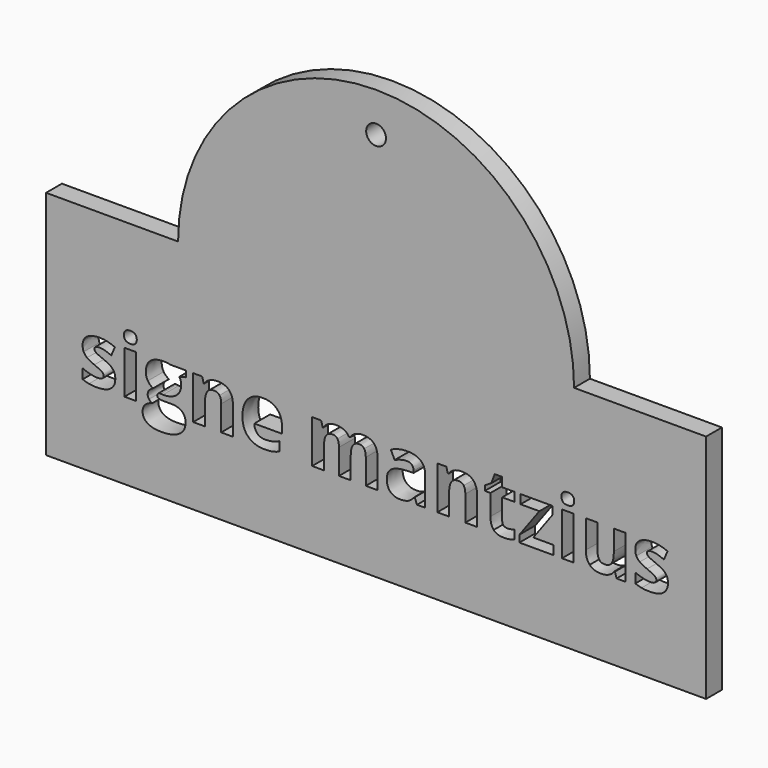
from build123d import *

# Parameters (mm, degrees)
F0_W     = 1.7806427504
F0_H     = 6.5284005979
F0_R     = 1.5
F1_DEPTH = 3


with BuildPart() as f1:
    # F0 (on Front) → F1 (new body)
    with BuildSketch(Plane.XZ):
        Polygon((-134.929150939, -12.6052355951), (-154.929150939, -12.6052355951), (-154.929150939, -47.6052355951), (-54.929150939, -47.6052355951), (-54.929150939, -12.6052355951), (-74.929150939, -12.6052355951), align=None)
        with BuildLine():
            add(Edge.make_bspline(
                [(-144.6096442125, -33.1692757871), (-144.4396143172, -33.5196121099), (-144.4396143172, -34.0035433506)],
                knots=[0, 0, 0, 1, 1, 1], degree=2))
            add(Edge.make_bspline(
                [(-144.4396143172, -34.0035433506), (-144.4396143172, -35.0087750397), (-145.1374842723, -35.5347466391)],
                knots=[0, 0, 0, 1, 1, 1], degree=2))
            add(Edge.make_bspline(
                [(-145.1374842723, -35.5347466391), (-145.8353542275, -36.0607182385), (-147.2254887566, -36.0607182385)],
                knots=[0, 0, 0, 1, 1, 1], degree=2))
            add(Edge.make_bspline(
                [(-147.2254887566, -36.0607182385), (-147.9373721647, -36.0607182385), (-148.4399880092, -35.9635582983)],
                knots=[0, 0, 0, 1, 1, 1], degree=2))
            add(Edge.make_bspline(
                [(-148.4399880092, -35.9635582983), (-148.9426038538, -35.8663983581), (-149.3798235847, -35.6795523192)],
                knots=[0, 0, 0, 1, 1, 1], degree=2))
            Line((-149.3798235847, -35.6795523192), (-149.3798235847, -34.2090739933))
            add(Edge.make_bspline(
                [(-149.3798235847, -34.2090739933), (-148.8846815817, -34.4426315419), (-148.2624842723, -34.6005164448)],
                knots=[0, 0, 0, 1, 1, 1], degree=2))
            add(Edge.make_bspline(
                [(-148.2624842723, -34.6005164448), (-147.6402869629, -34.7584013476), (-147.1675664846, -34.7584013476)],
                knots=[0, 0, 0, 1, 1, 1], degree=2))
            add(Edge.make_bspline(
                [(-147.1675664846, -34.7584013476), (-146.1978355429, -34.7584013476), (-146.1978355429, -34.197863231)],
                knots=[0, 0, 0, 1, 1, 1], degree=2))
            add(Edge.make_bspline(
                [(-146.1978355429, -34.197863231), (-146.1978355429, -33.9867272071), (-146.3267593097, -33.8550007497)],
                knots=[0, 0, 0, 1, 1, 1], degree=2))
            add(Edge.make_bspline(
                [(-146.3267593097, -33.8550007497), (-146.4556830765, -33.7232742923), (-146.770518652, -33.5569813177)],
                knots=[0, 0, 0, 1, 1, 1], degree=2))
            add(Edge.make_bspline(
                [(-146.770518652, -33.5569813177), (-147.0853542275, -33.3906883431), (-147.6103915967, -33.1702100173)],
                knots=[0, 0, 0, 1, 1, 1], degree=2))
            add(Edge.make_bspline(
                [(-147.6103915967, -33.1702100173), (-148.3633811333, -32.8544402116), (-148.717454377, -32.5853819156)],
                knots=[0, 0, 0, 1, 1, 1], degree=2))
            add(Edge.make_bspline(
                [(-148.717454377, -32.5853819156), (-149.0715276206, -32.3163236197), (-149.2312809838, -31.9687899874)],
                knots=[0, 0, 0, 1, 1, 1], degree=2))
            add(Edge.make_bspline(
                [(-149.2312809838, -31.9687899874), (-149.3910343471, -31.6212563551), (-149.3910343471, -31.1149035898)],
                knots=[0, 0, 0, 1, 1, 1], degree=2))
            add(Edge.make_bspline(
                [(-149.3910343471, -31.1149035898), (-149.3910343471, -30.2442010487), (-148.717454377, -29.7686778797)],
                knots=[0, 0, 0, 1, 1, 1], degree=2))
            add(Edge.make_bspline(
                [(-148.717454377, -29.7686778797), (-148.0438744069, -29.2931547108), (-146.8050851692, -29.2931547108)],
                knots=[0, 0, 0, 1, 1, 1], degree=2))
            add(Edge.make_bspline(
                [(-146.8050851692, -29.2931547108), (-145.626086664, -29.2931547108), (-144.5106158119, -29.8069813177)],
                knots=[0, 0, 0, 1, 1, 1], degree=2))
            Line((-144.5106158119, -29.8069813177), (-145.0468639435, -31.0906136047))
            add(Edge.make_bspline(
                [(-145.0468639435, -31.0906136047), (-145.5382690257, -30.8813460412), (-145.9642779943, -30.7468168932)],
                knots=[0, 0, 0, 1, 1, 1], degree=2))
            add(Edge.make_bspline(
                [(-145.9642779943, -30.7468168932), (-146.3902869629, -30.6122877452), (-146.8349805354, -30.6122877452)],
                knots=[0, 0, 0, 1, 1, 1], degree=2))
            add(Edge.make_bspline(
                [(-146.8349805354, -30.6122877452), (-147.6234708194, -30.6122877452), (-147.6234708194, -31.0382967138)],
                knots=[0, 0, 0, 1, 1, 1], degree=2))
            add(Edge.make_bspline(
                [(-147.6234708194, -31.0382967138), (-147.6234708194, -31.2774596436), (-147.3693602066, -31.4530949201)],
                knots=[0, 0, 0, 1, 1, 1], degree=2))
            add(Edge.make_bspline(
                [(-147.3693602066, -31.4530949201), (-147.1152495937, -31.6287301966), (-146.2557578149, -31.9725269081)],
                knots=[0, 0, 0, 1, 1, 1], degree=2))
            add(Edge.make_bspline(
                [(-146.2557578149, -31.9725269081), (-145.491557516, -32.2826913327), (-145.1356158119, -32.5508153984)],
                knots=[0, 0, 0, 1, 1, 1], degree=2))
            add(Edge.make_bspline(
                [(-145.1356158119, -32.5508153984), (-144.7796741079, -32.8189394642), (-144.6096442125, -33.1692757871)],
                knots=[0, 0, 0, 1, 1, 1], degree=2))
        make_face(mode=Mode.SUBTRACT)
        with BuildLine():
            Line((-135.9979102813, -29.4146046361), (-133.7202570675, -29.4146046361))
            Line((-133.7202570675, -29.4146046361), (-133.7202570675, -30.3208079246))
            Line((-133.7202570675, -30.3208079246), (-134.7423049001, -30.582392379))
            add(Edge.make_bspline(
                [(-134.7423049001, -30.582392379), (-134.4620358418, -31.0214805703), (-134.4620358418, -31.563334083)],
                knots=[0, 0, 0, 1, 1, 1], degree=2))
            add(Edge.make_bspline(
                [(-134.4620358418, -31.563334083), (-134.4620358418, -32.6152772818), (-135.1954065444, -33.2019738439)],
                knots=[0, 0, 0, 1, 1, 1], degree=2))
            add(Edge.make_bspline(
                [(-135.1954065444, -33.2019738439), (-135.9287772469, -33.7886704059), (-137.2292256774, -33.7886704059)],
                knots=[0, 0, 0, 1, 1, 1], degree=2))
            Line((-137.2292256774, -33.7886704059), (-137.5506008642, -33.769985802))
            Line((-137.5506008642, -33.769985802), (-137.814053779, -33.7419588962))
            add(Edge.make_bspline(
                [(-137.814053779, -33.7419588962), (-138.0887174562, -33.9512264597), (-138.0887174562, -34.2090739933)],
                knots=[0, 0, 0, 1, 1, 1], degree=2))
            add(Edge.make_bspline(
                [(-138.0887174562, -34.2090739933), (-138.0887174562, -34.5939768334), (-137.1077757521, -34.5939768334)],
                knots=[0, 0, 0, 1, 1, 1], degree=2))
            Line((-137.1077757521, -34.5939768334), (-135.9979102813, -34.5939768334))
            add(Edge.make_bspline(
                [(-135.9979102813, -34.5939768334), (-134.9235455578, -34.5939768334), (-134.3602047506, -35.0554865494)],
                knots=[0, 0, 0, 1, 1, 1], degree=2))
            add(Edge.make_bspline(
                [(-134.3602047506, -35.0554865494), (-133.7968639435, -35.5169962654), (-133.7968639435, -36.4101203312)],
                knots=[0, 0, 0, 1, 1, 1], degree=2))
            add(Edge.make_bspline(
                [(-133.7968639435, -36.4101203312), (-133.7968639435, -37.5554865494), (-134.7516472021, -38.1860919306)],
                knots=[0, 0, 0, 1, 1, 1], degree=2))
            add(Edge.make_bspline(
                [(-134.7516472021, -38.1860919306), (-135.7064304607, -38.8166973117), (-137.4926785922, -38.8166973117)],
                knots=[0, 0, 0, 1, 1, 1], degree=2))
            add(Edge.make_bspline(
                [(-137.4926785922, -38.8166973117), (-138.8585231363, -38.8166973117), (-139.5797488463, -38.3402399126)],
                knots=[0, 0, 0, 1, 1, 1], degree=2))
            add(Edge.make_bspline(
                [(-139.5797488463, -38.3402399126), (-140.3009745563, -37.8637825135), (-140.3009745563, -37.0061591951)],
                knots=[0, 0, 0, 1, 1, 1], degree=2))
            add(Edge.make_bspline(
                [(-140.3009745563, -37.0061591951), (-140.3009745563, -36.4157257123), (-139.9328878598, -36.0186778797)],
                knots=[0, 0, 0, 1, 1, 1], degree=2))
            add(Edge.make_bspline(
                [(-139.9328878598, -36.0186778797), (-139.5648011632, -35.6216300472), (-138.8529177551, -35.4516001518)],
                knots=[0, 0, 0, 1, 1, 1], degree=2))
            add(Edge.make_bspline(
                [(-138.8529177551, -35.4516001518), (-139.1275814323, -35.3357556077), (-139.3321778448, -35.0704342325)],
                knots=[0, 0, 0, 1, 1, 1], degree=2))
            add(Edge.make_bspline(
                [(-139.3321778448, -35.0704342325), (-139.5367742574, -34.8051128573), (-139.5367742574, -34.5061591951)],
                knots=[0, 0, 0, 1, 1, 1], degree=2))
            add(Edge.make_bspline(
                [(-139.5367742574, -34.5061591951), (-139.5367742574, -34.1324671174), (-139.3209670825, -33.8848961159)],
                knots=[0, 0, 0, 1, 1, 1], degree=2))
            add(Edge.make_bspline(
                [(-139.3209670825, -33.8848961159), (-139.1051599076, -33.6373251144), (-138.6959670825, -33.3962937243)],
                knots=[0, 0, 0, 1, 1, 1], degree=2))
            add(Edge.make_bspline(
                [(-138.6959670825, -33.3962937243), (-139.2097936894, -33.1758153984), (-139.5106158119, -32.6853445464)],
                knots=[0, 0, 0, 1, 1, 1], degree=2))
            add(Edge.make_bspline(
                [(-139.5106158119, -32.6853445464), (-139.8114379345, -32.1948736944), (-139.8114379345, -31.5278333356)],
                knots=[0, 0, 0, 1, 1, 1], degree=2))
            add(Edge.make_bspline(
                [(-139.8114379345, -31.5278333356), (-139.8114379345, -30.4609424537), (-139.1163706699, -29.8770485823)],
                knots=[0, 0, 0, 1, 1, 1], degree=2))
            add(Edge.make_bspline(
                [(-139.1163706699, -29.8770485823), (-138.4213034054, -29.2931547108), (-137.1301972768, -29.2931547108)],
                knots=[0, 0, 0, 1, 1, 1], degree=2))
            add(Edge.make_bspline(
                [(-137.1301972768, -29.2931547108), (-136.8555335997, -29.2931547108), (-136.4790388314, -29.3426689111)],
                knots=[0, 0, 0, 1, 1, 1], degree=2))
            add(Edge.make_bspline(
                [(-136.4790388314, -29.3426689111), (-136.1025440631, -29.3921831114), (-135.9979102813, -29.4146046361)],
                knots=[0, 0, 0, 1, 1, 1], degree=2))
        make_face(mode=Mode.SUBTRACT)
        with Locations((-142.1610268732, -32.678804935)):
            Rectangle(F0_W, F0_H, mode=Mode.SUBTRACT)
        with BuildLine():
            Line((-126.6201075907, -31.6866524687), (-126.6201075907, -35.943005234))
            Line((-126.6201075907, -35.943005234), (-128.4007503411, -35.943005234))
            Line((-128.4007503411, -35.943005234), (-128.4007503411, -32.1294775808))
            add(Edge.make_bspline(
                [(-128.4007503411, -32.1294775808), (-128.4007503411, -31.4231995539), (-128.6520582634, -31.0700605404)],
                knots=[0, 0, 0, 1, 1, 1], degree=2))
            add(Edge.make_bspline(
                [(-128.6520582634, -31.0700605404), (-128.9033661856, -30.716921527), (-129.4526935399, -30.716921527)],
                knots=[0, 0, 0, 1, 1, 1], degree=2))
            add(Edge.make_bspline(
                [(-129.4526935399, -30.716921527), (-130.2000776953, -30.716921527), (-130.5326636445, -31.2158004507)],
                knots=[0, 0, 0, 1, 1, 1], degree=2))
            add(Edge.make_bspline(
                [(-130.5326636445, -31.2158004507), (-130.8652495937, -31.7146793745), (-130.8652495937, -32.8712563551)],
                knots=[0, 0, 0, 1, 1, 1], degree=2))
            Line((-130.8652495937, -32.8712563551), (-130.8652495937, -35.943005234))
            Line((-130.8652495937, -35.943005234), (-132.6458923441, -35.943005234))
            Line((-132.6458923441, -35.943005234), (-132.6458923441, -29.4146046361))
            Line((-132.6458923441, -29.4146046361), (-131.2856531811, -29.4146046361))
            Line((-131.2856531811, -29.4146046361), (-131.0464902514, -30.2498064298))
            Line((-131.0464902514, -30.2498064298), (-130.9474618508, -30.2498064298))
            add(Edge.make_bspline(
                [(-130.9474618508, -30.2498064298), (-130.6485081886, -29.7770859515), (-130.12627351, -29.5351203312)],
                knots=[0, 0, 0, 1, 1, 1], degree=2))
            add(Edge.make_bspline(
                [(-130.12627351, -29.5351203312), (-129.6040388314, -29.2931547108), (-128.938866933, -29.2931547108)],
                knots=[0, 0, 0, 1, 1, 1], degree=2))
            add(Edge.make_bspline(
                [(-128.938866933, -29.2931547108), (-127.7991060959, -29.2931547108), (-127.2096068433, -29.9088124089)],
                knots=[0, 0, 0, 1, 1, 1], degree=2))
            add(Edge.make_bspline(
                [(-127.2096068433, -29.9088124089), (-126.6201075907, -30.5244701069), (-126.6201075907, -31.6866524687)],
                knots=[0, 0, 0, 1, 1, 1], degree=2))
        make_face(mode=Mode.SUBTRACT)
        with BuildLine():
            add(Edge.make_bspline(
                [(-120.5364005653, -35.9467421548), (-121.0670433157, -36.0607182385), (-121.833112075, -36.0607182385)],
                knots=[0, 0, 0, 1, 1, 1], degree=2))
            add(Edge.make_bspline(
                [(-121.833112075, -36.0607182385), (-123.4082241826, -36.0607182385), (-124.2957428672, -35.1900156974)],
                knots=[0, 0, 0, 1, 1, 1], degree=2))
            add(Edge.make_bspline(
                [(-124.2957428672, -35.1900156974), (-125.1832615518, -34.3193131563), (-125.1832615518, -32.7255164448)],
                knots=[0, 0, 0, 1, 1, 1], degree=2))
            add(Edge.make_bspline(
                [(-125.1832615518, -32.7255164448), (-125.1832615518, -31.0850082235), (-124.3630074412, -30.1890814672)],
                knots=[0, 0, 0, 1, 1, 1], degree=2))
            add(Edge.make_bspline(
                [(-124.3630074412, -30.1890814672), (-123.5427533306, -29.2931547108), (-122.0946965294, -29.2931547108)],
                knots=[0, 0, 0, 1, 1, 1], degree=2))
            add(Edge.make_bspline(
                [(-122.0946965294, -29.2931547108), (-120.7120358418, -29.2931547108), (-119.9412959315, -30.0807107646)],
                knots=[0, 0, 0, 1, 1, 1], degree=2))
            add(Edge.make_bspline(
                [(-119.9412959315, -30.0807107646), (-119.1705560212, -30.8682668185), (-119.1705560212, -32.2584013476)],
                knots=[0, 0, 0, 1, 1, 1], degree=2))
            Line((-119.1705560212, -32.2584013476), (-119.1705560212, -33.1234985075))
            Line((-119.1705560212, -33.1234985075), (-123.3801972768, -33.1234985075))
            add(Edge.make_bspline(
                [(-123.3801972768, -33.1234985075), (-123.3503019106, -33.8820934253), (-122.9298983231, -34.3081023939)],
                knots=[0, 0, 0, 1, 1, 1], degree=2))
            add(Edge.make_bspline(
                [(-122.9298983231, -34.3081023939), (-122.5094947357, -34.7341113626), (-121.7508998179, -34.7341113626)],
                knots=[0, 0, 0, 1, 1, 1], degree=2))
            add(Edge.make_bspline(
                [(-121.7508998179, -34.7341113626), (-121.1604663351, -34.7341113626), (-120.6354289659, -34.6117272071)],
                knots=[0, 0, 0, 1, 1, 1], degree=2))
            add(Edge.make_bspline(
                [(-120.6354289659, -34.6117272071), (-120.1103915967, -34.4893430516), (-119.5386427178, -34.2202847557)],
                knots=[0, 0, 0, 1, 1, 1], degree=2))
            Line((-119.5386427178, -34.2202847557), (-119.5386427178, -35.5992085225))
            add(Edge.make_bspline(
                [(-119.5386427178, -35.5992085225), (-120.0057578149, -35.8327660711), (-120.5364005653, -35.9467421548)],
                knots=[0, 0, 0, 1, 1, 1], degree=2))
        make_face(mode=Mode.SUBTRACT)
        with BuildLine():
            Line((-108.770705498, -32.6675941727), (-108.770705498, -35.943005234))
            Line((-108.770705498, -35.943005234), (-110.5513482484, -35.943005234))
            Line((-110.5513482484, -35.943005234), (-110.5513482484, -32.1294775808))
            add(Edge.make_bspline(
                [(-110.5513482484, -32.1294775808), (-110.5513482484, -31.4231995539), (-110.7877084876, -31.0700605404)],
                knots=[0, 0, 0, 1, 1, 1], degree=2))
            add(Edge.make_bspline(
                [(-110.7877084876, -31.0700605404), (-111.0240687267, -30.716921527), (-111.5322899524, -30.716921527)],
                knots=[0, 0, 0, 1, 1, 1], degree=2))
            add(Edge.make_bspline(
                [(-111.5322899524, -30.716921527), (-112.2161464547, -30.716921527), (-112.525376649, -31.2195373715)],
                knots=[0, 0, 0, 1, 1, 1], degree=2))
            add(Edge.make_bspline(
                [(-112.525376649, -31.2195373715), (-112.8346068433, -31.7221532161), (-112.8346068433, -32.8712563551)],
                knots=[0, 0, 0, 1, 1, 1], degree=2))
            Line((-112.8346068433, -32.8712563551), (-112.8346068433, -35.943005234))
            Line((-112.8346068433, -35.943005234), (-114.6152495937, -35.943005234))
            Line((-114.6152495937, -35.943005234), (-114.6152495937, -29.4146046361))
            Line((-114.6152495937, -29.4146046361), (-113.2550104308, -29.4146046361))
            Line((-113.2550104308, -29.4146046361), (-113.015847501, -30.2498064298))
            Line((-113.015847501, -30.2498064298), (-112.9168191004, -30.2498064298))
            add(Edge.make_bspline(
                [(-112.9168191004, -30.2498064298), (-112.6533661856, -29.7995074762), (-112.1572899524, -29.5463310935)],
                knots=[0, 0, 0, 1, 1, 1], degree=2))
            add(Edge.make_bspline(
                [(-112.1572899524, -29.5463310935), (-111.6612137193, -29.2931547108), (-111.0184633456, -29.2931547108)],
                knots=[0, 0, 0, 1, 1, 1], degree=2))
            add(Edge.make_bspline(
                [(-111.0184633456, -29.2931547108), (-109.5535904009, -29.2931547108), (-109.0322899524, -30.2498064298)],
                knots=[0, 0, 0, 1, 1, 1], degree=2))
            Line((-109.0322899524, -30.2498064298), (-108.8753392798, -30.2498064298))
            add(Edge.make_bspline(
                [(-108.8753392798, -30.2498064298), (-108.611886365, -29.793902095), (-108.1017966789, -29.5435284029)],
                knots=[0, 0, 0, 1, 1, 1], degree=2))
            add(Edge.make_bspline(
                [(-108.1017966789, -29.5435284029), (-107.5917069928, -29.2931547108), (-106.9489566191, -29.2931547108)],
                knots=[0, 0, 0, 1, 1, 1], degree=2))
            add(Edge.make_bspline(
                [(-106.9489566191, -29.2931547108), (-105.8390911483, -29.2931547108), (-105.2701449599, -29.8621008992)],
                knots=[0, 0, 0, 1, 1, 1], degree=2))
            add(Edge.make_bspline(
                [(-105.2701449599, -29.8621008992), (-104.7011987716, -30.4310470875), (-104.7011987716, -31.6866524687)],
                knots=[0, 0, 0, 1, 1, 1], degree=2))
            Line((-104.7011987716, -31.6866524687), (-104.7011987716, -35.943005234))
            Line((-104.7011987716, -35.943005234), (-106.4874469031, -35.943005234))
            Line((-106.4874469031, -35.943005234), (-106.4874469031, -32.1294775808))
            add(Edge.make_bspline(
                [(-106.4874469031, -32.1294775808), (-106.4874469031, -31.4231995539), (-106.7238071423, -31.0700605404)],
                knots=[0, 0, 0, 1, 1, 1], degree=2))
            add(Edge.make_bspline(
                [(-106.7238071423, -31.0700605404), (-106.9601673814, -30.716921527), (-107.4683886071, -30.716921527)],
                knots=[0, 0, 0, 1, 1, 1], degree=2))
            add(Edge.make_bspline(
                [(-107.4683886071, -30.716921527), (-108.1223497432, -30.716921527), (-108.4465276206, -31.1840366241)],
                knots=[0, 0, 0, 1, 1, 1], degree=2))
            add(Edge.make_bspline(
                [(-108.4465276206, -31.1840366241), (-108.770705498, -31.6511517213), (-108.770705498, -32.6675941727)],
                knots=[0, 0, 0, 1, 1, 1], degree=2))
        make_face(mode=Mode.SUBTRACT)
        with BuildLine():
            add(Edge.make_bspline(
                [(-142.1582241826, -28.6036928274), (-143.1279551243, -28.6036928274), (-143.1279551243, -27.7273849052)],
                knots=[0, 0, 0, 1, 1, 1], degree=2))
            add(Edge.make_bspline(
                [(-143.1279551243, -27.7273849052), (-143.1279551243, -26.856682364), (-142.1582241826, -26.856682364)],
                knots=[0, 0, 0, 1, 1, 1], degree=2))
            add(Edge.make_bspline(
                [(-142.1582241826, -26.856682364), (-141.1884932409, -26.856682364), (-141.1884932409, -27.7273849052)],
                knots=[0, 0, 0, 1, 1, 1], degree=2))
            add(Edge.make_bspline(
                [(-141.1884932409, -27.7273849052), (-141.1884932409, -28.1421831114), (-141.4304588613, -28.3729379694)],
                knots=[0, 0, 0, 1, 1, 1], degree=2))
            add(Edge.make_bspline(
                [(-141.4304588613, -28.3729379694), (-141.6724244816, -28.6036928274), (-142.1582241826, -28.6036928274)],
                knots=[0, 0, 0, 1, 1, 1], degree=2))
        make_face(mode=Mode.SUBTRACT)
        with BuildLine():
            Line((-97.4852047506, -35.943005234), (-98.7277309091, -35.943005234))
            Line((-98.7277309091, -35.943005234), (-99.073396081, -35.0554865494))
            Line((-99.073396081, -35.0554865494), (-99.1201075907, -35.0554865494))
            add(Edge.make_bspline(
                [(-99.1201075907, -35.0554865494), (-99.568538084, -35.6216300472), (-100.0449954831, -35.8411741428)],
                knots=[0, 0, 0, 1, 1, 1], degree=2))
            add(Edge.make_bspline(
                [(-100.0449954831, -35.8411741428), (-100.5214528822, -36.0607182385), (-101.2856531811, -36.0607182385)],
                knots=[0, 0, 0, 1, 1, 1], degree=2))
            add(Edge.make_bspline(
                [(-101.2856531811, -36.0607182385), (-102.2254887566, -36.0607182385), (-102.7654738089, -35.5226016466)],
                knots=[0, 0, 0, 1, 1, 1], degree=2))
            add(Edge.make_bspline(
                [(-102.7654738089, -35.5226016466), (-103.3054588613, -34.9844850546), (-103.3054588613, -33.9923325883)],
                knots=[0, 0, 0, 1, 1, 1], degree=2))
            add(Edge.make_bspline(
                [(-103.3054588613, -33.9923325883), (-103.3054588613, -32.9534686122), (-102.5786277701, -32.4601950696)],
                knots=[0, 0, 0, 1, 1, 1], degree=2))
            add(Edge.make_bspline(
                [(-102.5786277701, -32.4601950696), (-101.8517966789, -31.966921527), (-100.3869237342, -31.9146046361)],
                knots=[0, 0, 0, 1, 1, 1], degree=2))
            Line((-100.3869237342, -31.9146046361), (-99.2527682783, -31.8791038887))
            Line((-99.2527682783, -31.8791038887), (-99.2527682783, -31.5932294492))
            add(Edge.make_bspline(
                [(-99.2527682783, -31.5932294492), (-99.2527682783, -30.6010769829), (-100.2692107297, -30.6010769829)],
                knots=[0, 0, 0, 1, 1, 1], degree=2))
            add(Edge.make_bspline(
                [(-100.2692107297, -30.6010769829), (-101.0520956326, -30.6010769829), (-102.1096442125, -31.0737974612)],
                knots=[0, 0, 0, 1, 1, 1], degree=2))
            Line((-102.1096442125, -31.0737974612), (-102.698209235, -29.8705089709))
            add(Edge.make_bspline(
                [(-102.698209235, -29.8705089709), (-101.5715276206, -29.2800754881), (-100.2000776953, -29.2800754881)],
                knots=[0, 0, 0, 1, 1, 1], degree=2))
            add(Edge.make_bspline(
                [(-100.2000776953, -29.2800754881), (-98.8865500421, -29.2800754881), (-98.1858773964, -29.8527585972)],
                knots=[0, 0, 0, 1, 1, 1], degree=2))
            add(Edge.make_bspline(
                [(-98.1858773964, -29.8527585972), (-97.4852047506, -30.4254417063), (-97.4852047506, -31.5932294492)],
                knots=[0, 0, 0, 1, 1, 1], degree=2))
            Line((-97.4852047506, -31.5932294492), (-97.4852047506, -35.943005234))
        make_face(mode=Mode.SUBTRACT)
        with BuildLine():
            Line((-89.6245918956, -31.6866524687), (-89.6245918956, -35.943005234))
            Line((-89.6245918956, -35.943005234), (-91.405234646, -35.943005234))
            Line((-91.405234646, -35.943005234), (-91.405234646, -32.1294775808))
            add(Edge.make_bspline(
                [(-91.405234646, -32.1294775808), (-91.405234646, -31.4231995539), (-91.6565425683, -31.0700605404)],
                knots=[0, 0, 0, 1, 1, 1], degree=2))
            add(Edge.make_bspline(
                [(-91.6565425683, -31.0700605404), (-91.9078504906, -30.716921527), (-92.4571778448, -30.716921527)],
                knots=[0, 0, 0, 1, 1, 1], degree=2))
            add(Edge.make_bspline(
                [(-92.4571778448, -30.716921527), (-93.2045620003, -30.716921527), (-93.5371479495, -31.2158004507)],
                knots=[0, 0, 0, 1, 1, 1], degree=2))
            add(Edge.make_bspline(
                [(-93.5371479495, -31.2158004507), (-93.8697338986, -31.7146793745), (-93.8697338986, -32.8712563551)],
                knots=[0, 0, 0, 1, 1, 1], degree=2))
            Line((-93.8697338986, -32.8712563551), (-93.8697338986, -35.943005234))
            Line((-93.8697338986, -35.943005234), (-95.650376649, -35.943005234))
            Line((-95.650376649, -35.943005234), (-95.650376649, -29.4146046361))
            Line((-95.650376649, -29.4146046361), (-94.2901374861, -29.4146046361))
            Line((-94.2901374861, -29.4146046361), (-94.0509745563, -30.2498064298))
            Line((-94.0509745563, -30.2498064298), (-93.9519461557, -30.2498064298))
            add(Edge.make_bspline(
                [(-93.9519461557, -30.2498064298), (-93.6529924935, -29.7770859515), (-93.1307578149, -29.5351203312)],
                knots=[0, 0, 0, 1, 1, 1], degree=2))
            add(Edge.make_bspline(
                [(-93.1307578149, -29.5351203312), (-92.6085231363, -29.2931547108), (-91.9433512379, -29.2931547108)],
                knots=[0, 0, 0, 1, 1, 1], degree=2))
            add(Edge.make_bspline(
                [(-91.9433512379, -29.2931547108), (-90.8035904009, -29.2931547108), (-90.2140911483, -29.9088124089)],
                knots=[0, 0, 0, 1, 1, 1], degree=2))
            add(Edge.make_bspline(
                [(-90.2140911483, -29.9088124089), (-89.6245918956, -30.5244701069), (-89.6245918956, -31.6866524687)],
                knots=[0, 0, 0, 1, 1, 1], degree=2))
        make_face(mode=Mode.SUBTRACT)
        with BuildLine():
            add(Edge.make_bspline(
                [(-85.6055335997, -34.4594476854), (-85.3925291154, -34.6406883431), (-85.0412585623, -34.6406883431)],
                knots=[0, 0, 0, 1, 1, 1], degree=2))
            add(Edge.make_bspline(
                [(-85.0412585623, -34.6406883431), (-84.5741434651, -34.6406883431), (-83.9201823291, -34.4370261608)],
                knots=[0, 0, 0, 1, 1, 1], degree=2))
            Line((-83.9201823291, -34.4370261608), (-83.9201823291, -35.7617645763))
            add(Edge.make_bspline(
                [(-83.9201823291, -35.7617645763), (-84.5853542275, -36.0607182385), (-85.5550851692, -36.0607182385)],
                knots=[0, 0, 0, 1, 1, 1], degree=2))
            add(Edge.make_bspline(
                [(-85.5550851692, -36.0607182385), (-86.6238445115, -36.0607182385), (-87.1115126729, -35.519798956)],
                knots=[0, 0, 0, 1, 1, 1], degree=2))
            add(Edge.make_bspline(
                [(-87.1115126729, -35.519798956), (-87.5991808344, -34.9788796735), (-87.5991808344, -33.8989095688)],
                knots=[0, 0, 0, 1, 1, 1], degree=2))
            Line((-87.5991808344, -33.8989095688), (-87.5991808344, -30.7524222744))
            Line((-87.5991808344, -30.7524222744), (-88.4511987716, -30.7524222744))
            Line((-88.4511987716, -30.7524222744), (-88.4511987716, -29.9994327377))
            Line((-88.4511987716, -29.9994327377), (-87.4702570675, -29.4033938738))
            Line((-87.4702570675, -29.4033938738), (-86.9564304607, -28.0244701069))
            Line((-86.9564304607, -28.0244701069), (-85.818538084, -28.0244701069))
            Line((-85.818538084, -28.0244701069), (-85.818538084, -29.4146046361))
            Line((-85.818538084, -29.4146046361), (-83.9911838239, -29.4146046361))
            Line((-83.9911838239, -29.4146046361), (-83.9911838239, -30.7524222744))
            Line((-83.9911838239, -30.7524222744), (-85.818538084, -30.7524222744))
            Line((-85.818538084, -30.7524222744), (-85.818538084, -33.8989095688))
            add(Edge.make_bspline(
                [(-85.818538084, -33.8989095688), (-85.818538084, -34.2782070277), (-85.6055335997, -34.4594476854)],
                knots=[0, 0, 0, 1, 1, 1], degree=2))
        make_face(mode=Mode.SUBTRACT)
        Polygon((-78.05882209, -34.5827660711), (-78.05882209, -35.943005234), (-83.2139043022, -35.943005234), (-83.2139043022, -34.8910620352), (-80.188866933, -30.774843799), (-83.0326636445, -30.774843799), (-83.0326636445, -29.4146046361), (-78.1634558717, -29.4146046361), (-78.1634558717, -30.5711816167), (-81.1062809838, -34.5827660711), align=None, mode=Mode.SUBTRACT)
        with Locations((-75.8773945862, -32.678804935)):
            Rectangle(F0_W, F0_H, mode=Mode.SUBTRACT)
        with BuildLine():
            Line((-67.1283288164, -35.943005234), (-68.4941733605, -35.943005234))
            Line((-68.4941733605, -35.943005234), (-68.7333362903, -35.1078034403))
            Line((-68.7333362903, -35.1078034403), (-68.8267593097, -35.1078034403))
            add(Edge.make_bspline(
                [(-68.8267593097, -35.1078034403), (-69.1126337492, -35.5637077751), (-69.6386053486, -35.8122130068)],
                knots=[0, 0, 0, 1, 1, 1], degree=2))
            add(Edge.make_bspline(
                [(-69.6386053486, -35.8122130068), (-70.164576948, -36.0607182385), (-70.8353542275, -36.0607182385)],
                knots=[0, 0, 0, 1, 1, 1], degree=2))
            add(Edge.make_bspline(
                [(-70.8353542275, -36.0607182385), (-71.9863258269, -36.0607182385), (-72.5702196983, -35.4441263102)],
                knots=[0, 0, 0, 1, 1, 1], degree=2))
            add(Edge.make_bspline(
                [(-72.5702196983, -35.4441263102), (-73.1541135698, -34.827534382), (-73.1541135698, -33.6709574014)],
                knots=[0, 0, 0, 1, 1, 1], degree=2))
            Line((-73.1541135698, -33.6709574014), (-73.1541135698, -29.4146046361))
            Line((-73.1541135698, -29.4146046361), (-71.3734708194, -29.4146046361))
            Line((-71.3734708194, -29.4146046361), (-71.3734708194, -33.2281322893))
            add(Edge.make_bspline(
                [(-71.3734708194, -33.2281322893), (-71.3734708194, -33.9344103162), (-71.1221628971, -34.2875493297)],
                knots=[0, 0, 0, 1, 1, 1], degree=2))
            add(Edge.make_bspline(
                [(-71.1221628971, -34.2875493297), (-70.8708549749, -34.6406883431), (-70.3215276206, -34.6406883431)],
                knots=[0, 0, 0, 1, 1, 1], degree=2))
            add(Edge.make_bspline(
                [(-70.3215276206, -34.6406883431), (-69.5741434651, -34.6406883431), (-69.241557516, -34.1418094194)],
                knots=[0, 0, 0, 1, 1, 1], degree=2))
            add(Edge.make_bspline(
                [(-69.241557516, -34.1418094194), (-68.9089715668, -33.6429304956), (-68.9089715668, -32.486353515)],
                knots=[0, 0, 0, 1, 1, 1], degree=2))
            Line((-68.9089715668, -32.486353515), (-68.9089715668, -29.4146046361))
            Line((-68.9089715668, -29.4146046361), (-67.1283288164, -29.4146046361))
            Line((-67.1283288164, -29.4146046361), (-67.1283288164, -35.943005234))
        make_face(mode=Mode.SUBTRACT)
        with BuildLine():
            add(Edge.make_bspline(
                [(-60.8745918956, -33.1692757871), (-60.7045620003, -33.5196121099), (-60.7045620003, -34.0035433506)],
                knots=[0, 0, 0, 1, 1, 1], degree=2))
            add(Edge.make_bspline(
                [(-60.7045620003, -34.0035433506), (-60.7045620003, -35.0087750397), (-61.4024319554, -35.5347466391)],
                knots=[0, 0, 0, 1, 1, 1], degree=2))
            add(Edge.make_bspline(
                [(-61.4024319554, -35.5347466391), (-62.1003019106, -36.0607182385), (-63.4904364397, -36.0607182385)],
                knots=[0, 0, 0, 1, 1, 1], degree=2))
            add(Edge.make_bspline(
                [(-63.4904364397, -36.0607182385), (-64.2023198478, -36.0607182385), (-64.7049356924, -35.9635582983)],
                knots=[0, 0, 0, 1, 1, 1], degree=2))
            add(Edge.make_bspline(
                [(-64.7049356924, -35.9635582983), (-65.2075515369, -35.8663983581), (-65.6447712678, -35.6795523192)],
                knots=[0, 0, 0, 1, 1, 1], degree=2))
            Line((-65.6447712678, -35.6795523192), (-65.6447712678, -34.2090739933))
            add(Edge.make_bspline(
                [(-65.6447712678, -34.2090739933), (-65.1496292648, -34.4426315419), (-64.5274319554, -34.6005164448)],
                knots=[0, 0, 0, 1, 1, 1], degree=2))
            add(Edge.make_bspline(
                [(-64.5274319554, -34.6005164448), (-63.905234646, -34.7584013476), (-63.4325141677, -34.7584013476)],
                knots=[0, 0, 0, 1, 1, 1], degree=2))
            add(Edge.make_bspline(
                [(-63.4325141677, -34.7584013476), (-62.462783226, -34.7584013476), (-62.462783226, -34.197863231)],
                knots=[0, 0, 0, 1, 1, 1], degree=2))
            add(Edge.make_bspline(
                [(-62.462783226, -34.197863231), (-62.462783226, -33.9867272071), (-62.5917069928, -33.8550007497)],
                knots=[0, 0, 0, 1, 1, 1], degree=2))
            add(Edge.make_bspline(
                [(-62.5917069928, -33.8550007497), (-62.7206307596, -33.7232742923), (-63.0354663351, -33.5569813177)],
                knots=[0, 0, 0, 1, 1, 1], degree=2))
            add(Edge.make_bspline(
                [(-63.0354663351, -33.5569813177), (-63.3503019106, -33.3906883431), (-63.8753392798, -33.1702100173)],
                knots=[0, 0, 0, 1, 1, 1], degree=2))
            add(Edge.make_bspline(
                [(-63.8753392798, -33.1702100173), (-64.6283288164, -32.8544402116), (-64.9824020601, -32.5853819156)],
                knots=[0, 0, 0, 1, 1, 1], degree=2))
            add(Edge.make_bspline(
                [(-64.9824020601, -32.5853819156), (-65.3364753037, -32.3163236197), (-65.4962286669, -31.9687899874)],
                knots=[0, 0, 0, 1, 1, 1], degree=2))
            add(Edge.make_bspline(
                [(-65.4962286669, -31.9687899874), (-65.6559820302, -31.6212563551), (-65.6559820302, -31.1149035898)],
                knots=[0, 0, 0, 1, 1, 1], degree=2))
            add(Edge.make_bspline(
                [(-65.6559820302, -31.1149035898), (-65.6559820302, -30.2442010487), (-64.9824020601, -29.7686778797)],
                knots=[0, 0, 0, 1, 1, 1], degree=2))
            add(Edge.make_bspline(
                [(-64.9824020601, -29.7686778797), (-64.30882209, -29.2931547108), (-63.0700328523, -29.2931547108)],
                knots=[0, 0, 0, 1, 1, 1], degree=2))
            add(Edge.make_bspline(
                [(-63.0700328523, -29.2931547108), (-61.8910343471, -29.2931547108), (-60.775563495, -29.8069813177)],
                knots=[0, 0, 0, 1, 1, 1], degree=2))
            Line((-60.775563495, -29.8069813177), (-61.3118116266, -31.0906136047))
            add(Edge.make_bspline(
                [(-61.3118116266, -31.0906136047), (-61.8032167088, -30.8813460412), (-62.2292256774, -30.7468168932)],
                knots=[0, 0, 0, 1, 1, 1], degree=2))
            add(Edge.make_bspline(
                [(-62.2292256774, -30.7468168932), (-62.655234646, -30.6122877452), (-63.0999282185, -30.6122877452)],
                knots=[0, 0, 0, 1, 1, 1], degree=2))
            add(Edge.make_bspline(
                [(-63.0999282185, -30.6122877452), (-63.8884185025, -30.6122877452), (-63.8884185025, -31.0382967138)],
                knots=[0, 0, 0, 1, 1, 1], degree=2))
            add(Edge.make_bspline(
                [(-63.8884185025, -31.0382967138), (-63.8884185025, -31.2774596436), (-63.6343078897, -31.4530949201)],
                knots=[0, 0, 0, 1, 1, 1], degree=2))
            add(Edge.make_bspline(
                [(-63.6343078897, -31.4530949201), (-63.3801972768, -31.6287301966), (-62.520705498, -31.9725269081)],
                knots=[0, 0, 0, 1, 1, 1], degree=2))
            add(Edge.make_bspline(
                [(-62.520705498, -31.9725269081), (-61.7565051991, -32.2826913327), (-61.400563495, -32.5508153984)],
                knots=[0, 0, 0, 1, 1, 1], degree=2))
            add(Edge.make_bspline(
                [(-61.400563495, -32.5508153984), (-61.044621791, -32.8189394642), (-60.8745918956, -33.1692757871)],
                knots=[0, 0, 0, 1, 1, 1], degree=2))
        make_face(mode=Mode.SUBTRACT)
        with BuildLine():
            add(Edge.make_bspline(
                [(-75.8745918956, -28.6036928274), (-76.8443228373, -28.6036928274), (-76.8443228373, -27.7273849052)],
                knots=[0, 0, 0, 1, 1, 1], degree=2))
            add(Edge.make_bspline(
                [(-76.8443228373, -27.7273849052), (-76.8443228373, -26.856682364), (-75.8745918956, -26.856682364)],
                knots=[0, 0, 0, 1, 1, 1], degree=2))
            add(Edge.make_bspline(
                [(-75.8745918956, -26.856682364), (-74.9048609539, -26.856682364), (-74.9048609539, -27.7273849052)],
                knots=[0, 0, 0, 1, 1, 1], degree=2))
            add(Edge.make_bspline(
                [(-74.9048609539, -27.7273849052), (-74.9048609539, -28.1421831114), (-75.1468265743, -28.3729379694)],
                knots=[0, 0, 0, 1, 1, 1], degree=2))
            add(Edge.make_bspline(
                [(-75.1468265743, -28.3729379694), (-75.3887921946, -28.6036928274), (-75.8745918956, -28.6036928274)],
                knots=[0, 0, 0, 1, 1, 1], degree=2))
        make_face(mode=Mode.SUBTRACT)
        with BuildLine():
            ThreePointArc((-74.929150939, -12.6052355951), (-104.929150939, 17.3947644049), (-134.929150939, -12.6052355951))
            Line((-134.929150939, -12.6052355951), (-74.929150939, -12.6052355951))
        make_face()
        with Locations((-104.929150939, 11.3913884732)):
            Circle(F0_R, mode=Mode.SUBTRACT)
    extrude(amount=F1_DEPTH)


solid = f1.part
